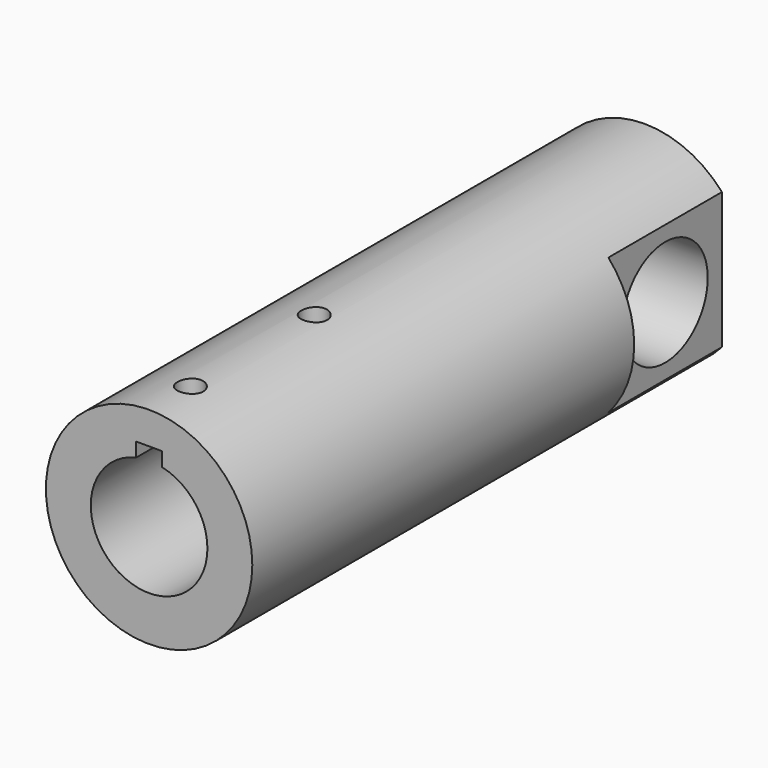
from build123d import *

# Parameters (mm, degrees)
F0_R     = 25.4
F1_DEPTH = 152.4
F3_DEPTH = 76.2
F5_DEPTH = 7.9375
F7_DEPTH = 34.925
F9_D     = 26.19502


with BuildPart() as f1:
    # F0 (on Front) → F1 (new body)
    with BuildSketch(Plane.XZ):
        Circle(F0_R)
    extrude(amount=-F1_DEPTH)

    # F2 (on face) → F3 (cut)
    with BuildSketch(Plane.XZ):
        with BuildLine():
            ThreePointArc((-3.175, 13.995376951), (-8.9550761024, -11.214179105), (14.351, 0))
            ThreePointArc((14.351, 0), (11.214179105, 8.9550761024), (3.175, 13.995376951))
            Line((3.175, 13.995376951), (3.175, 11.1125))
            Line((3.175, 11.1125), (-3.175, 11.1125))
            Line((-3.175, 11.1125), (-3.175, 13.995376951))
        make_face()
        with BuildLine():
            Line((3.175, 11.1125), (3.175, 13.995376951))
            ThreePointArc((3.175, 13.995376951), (0, 14.351), (-3.175, 13.995376951))
            Line((-3.175, 13.995376951), (-3.175, 11.1125))
            Line((-3.175, 11.1125), (3.175, 11.1125))
        make_face()
        with BuildLine():
            ThreePointArc((-3.175, 13.995376951), (0, 14.351), (3.175, 13.995376951))
            Line((3.175, 13.995376951), (3.175, 17.4625))
            Line((3.175, 17.4625), (-3.175, 17.4625))
            Line((-3.175, 17.4625), (-3.175, 13.995376951))
        make_face()
    extrude(amount=-F3_DEPTH, mode=Mode.SUBTRACT)

    # F4 (on face) → F5 (cut, through all)
    with BuildSketch(Plane(origin=(0, 0, 17.4625), x_dir=(1, 0, 0), z_dir=(0, 0, -1))):
        with BuildLine():
            ThreePointArc((-3.175, -12.7), (0, -15.875), (3.175, -12.7))
            ThreePointArc((3.175, -12.7), (0, -9.525), (-3.175, -12.7))
        make_face()
        with BuildLine():
            ThreePointArc((-3.175, -50.8), (0, -53.975), (3.175, -50.8))
            ThreePointArc((3.175, -50.8), (0, -47.625), (-3.175, -50.8))
        make_face()
    extrude(amount=-F5_DEPTH, mode=Mode.SUBTRACT)

    # F6 (on face) → F7 (cut)
    with BuildSketch(Plane(origin=(0, 152.4, 0), x_dir=(-1, 0, 0), z_dir=(0, 1, 0))):
        with BuildLine():
            Line((-19.05, -16.8005208253), (-19.05, 16.8005208253))
            ThreePointArc((-19.05, 16.8005208253), (-25.4, 0), (-19.05, -16.8005208253))
        make_face()
        with BuildLine():
            ThreePointArc((19.05, -16.8005208253), (23.759524406, -8.9802561211), (25.4, 0))
            ThreePointArc((25.4, 0), (23.759524406, 8.9802561211), (19.05, 16.8005208253))
            Line((19.05, 16.8005208253), (19.05, -16.8005208253))
        make_face()
    extrude(amount=-F7_DEPTH, mode=Mode.SUBTRACT)

    # F9 (through all)
    with Locations(Plane.YZ.offset(19.05)):
        with Locations((134.9375, 0)):
            Hole(F9_D / 2)


solid = f1.part
